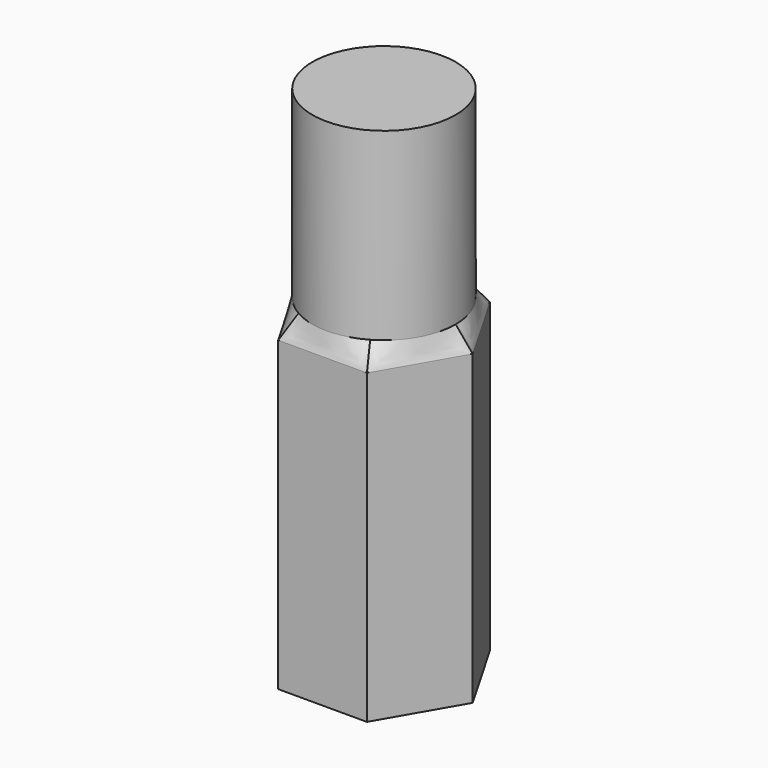
from build123d import *

# Parameters (mm, degrees)
F1_DEPTH = 15
F3_R     = 3.5
F5_DEPTH = 9


with BuildPart() as f1:
    # F0 (on Top) → F1 (new body)
    with BuildSketch(Plane.XY):
        Polygon((2.1650635095, 3.75), (-2.1650635095, 3.75), (-4.3301270189, 0), (-2.1650635095, -3.75), (2.1650635095, -3.75), (4.3301270189, 0), align=None)
    extrude(amount=F1_DEPTH)

    # F1_face (on face) → F4 section 0
    with BuildSketch(Plane.XY.offset(15)):
        Polygon((4.3301270189, 0), (2.1650635095, 3.75), (-2.1650635095, 3.75), (-4.3301270189, 0), (-2.1650635095, -3.75), (2.1650635095, -3.75), align=None)
    # F3 (on offset) → F4 section 1
    with BuildSketch(Plane.XY.offset(16)):
        Circle(F3_R)
    loft()

    # F5 (add): a face of the model
    f5_faces = [f1.faces().sort_by_distance(p)[0] for p in [
        (0, 0, 16),
    ]]
    extrude(f5_faces, amount=F5_DEPTH)


solid = f1.part
